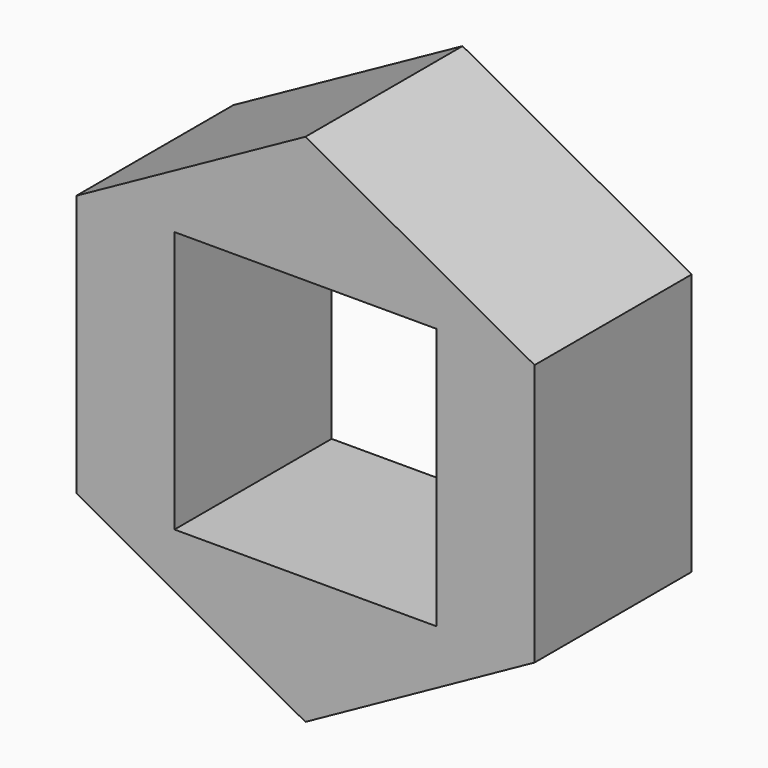
from build123d import *

# Parameters (mm, degrees)
F0_W     = 6.35
F0_H     = 6.35
F1_DEPTH = 4.7625


with BuildPart() as f1:
    # F0 (on Front) → F1 (new body)
    with BuildSketch(Plane.XZ):
        Polygon((-33.332054, 31.175699), (-38.888304, 28.109566), (-38.888304, 21.759566), (-33.332054, 18.685385), (-27.775804, 21.759566), (-27.775804, 28.109566), align=None)
        with Locations((-33.332054, 24.934566)):
            Rectangle(F0_W, F0_H, mode=Mode.SUBTRACT)
    extrude(amount=F1_DEPTH)


solid = f1.part
